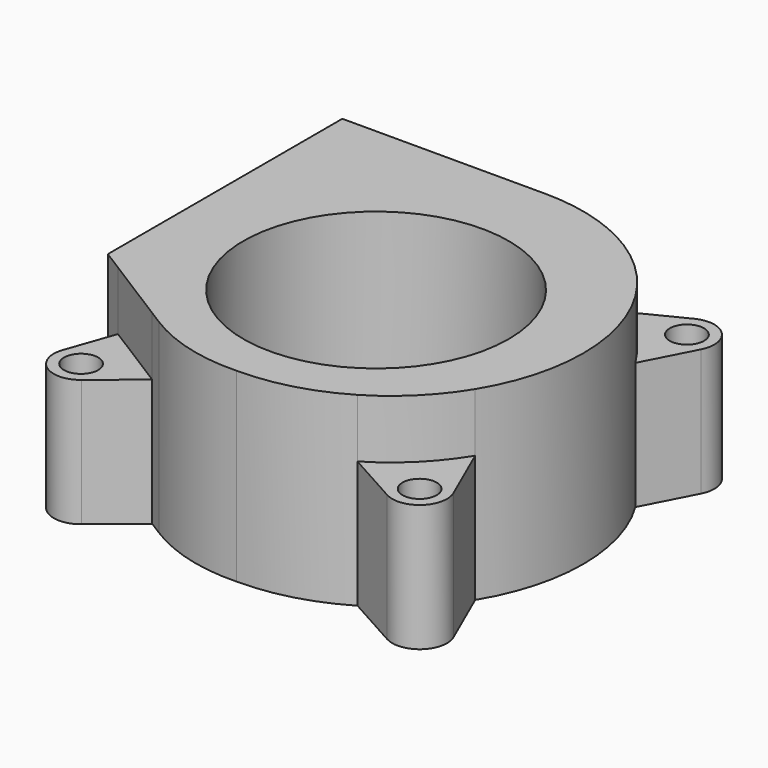
from build123d import *

# Parameters (mm, degrees)
F0_R     = 13.586014
F0_R_2   = 1.75
F1_DEPTH = 1.5
F2_DEPTH = 13
F3_DEPTH = 19


with BuildPart() as f1:
    # F0 (on Top) → F1 (new body)
    with BuildSketch(Plane.XY):
        with BuildLine():
            Line((43.291877, 24.555553), (22.56174, 24.555553))
            Line((22.56174, 24.555553), (22.56174, -5.444447))
            Line((22.56174, -5.444447), (24.640569, -6.751582))
            Line((24.640569, -6.751582), (31.699486, -11.190116))
            Line((31.699486, -11.190116), (33.062977, -12.047457))
            ThreePointArc((33.062977, -12.047457), (37.919879, -14.173764), (43.186607, -14.783891))
            ThreePointArc((43.186607, -14.783891), (48.465497, -14.09159), (53.365348, -12.008945))
            ThreePointArc((53.365348, -12.008945), (57.132258, -9.090982), (60.086993, -5.352845))
            ThreePointArc((60.086993, -5.352845), (62.961704, 4.923251), (60.047767, 15.188294))
            ThreePointArc((60.047767, 15.188294), (57.289995, 18.70438), (53.809777, 21.507281))
            ThreePointArc((53.809777, 21.507281), (48.767235, 23.778121), (43.291877, 24.555553))
        make_face()
        with Locations((43.186607, 3.091027)):
            Circle(F0_R, mode=Mode.SUBTRACT)
        with Locations((43.186607, 3.091027)):
            Circle(F0_R)
        with BuildLine():
            Line((31.699486, -11.190116), (24.640569, -6.751582))
            Line((24.640569, -6.751582), (22.912271, -11.682871))
            ThreePointArc((22.912271, -11.682871), (23.949593, -14.903245), (27.330435, -14.773852))
            Line((27.330435, -14.773852), (31.699486, -11.190116))
        make_face()
        with Locations((25.554683, -12.608973)):
            Circle(F0_R_2, mode=Mode.SUBTRACT)
        with BuildLine():
            Line((62.771435, -11.486311), (60.086993, -5.352845))
            ThreePointArc((60.086993, -5.352845), (57.132258, -9.090982), (53.365348, -12.008945))
            Line((53.365348, -12.008945), (58.845684, -15.056129))
            ThreePointArc((58.845684, -15.056129), (62.090115, -14.680554), (62.771435, -11.486311))
        make_face()
        with Locations((60.206356, -12.608973)):
            Circle(F0_R_2, mode=Mode.SUBTRACT)
        with BuildLine():
            Line((58.947953, 24.092311), (53.809777, 21.507281))
            ThreePointArc((53.809777, 21.507281), (57.289995, 18.70438), (60.047767, 15.188294))
            Line((60.047767, 15.188294), (62.693522, 20.304946))
            ThreePointArc((62.693522, 20.304946), (62.197209, 23.559911), (58.947953, 24.092311))
        make_face()
        with Locations((60.206356, 21.591027)):
            Circle(F0_R_2, mode=Mode.SUBTRACT)
    extrude(amount=F1_DEPTH)

    # F0 (on Top) → F2 (join)
    with BuildSketch(Plane.XY):
        with BuildLine():
            Line((31.699486, -11.190116), (24.640569, -6.751582))
            Line((24.640569, -6.751582), (22.912271, -11.682871))
            ThreePointArc((22.912271, -11.682871), (23.949593, -14.903245), (27.330435, -14.773852))
            Line((27.330435, -14.773852), (31.699486, -11.190116))
        make_face()
        with Locations((25.554683, -12.608973)):
            Circle(F0_R_2, mode=Mode.SUBTRACT)
        with BuildLine():
            Line((62.771435, -11.486311), (60.086993, -5.352845))
            ThreePointArc((60.086993, -5.352845), (57.132258, -9.090982), (53.365348, -12.008945))
            Line((53.365348, -12.008945), (58.845684, -15.056129))
            ThreePointArc((58.845684, -15.056129), (62.090115, -14.680554), (62.771435, -11.486311))
        make_face()
        with Locations((60.206356, -12.608973)):
            Circle(F0_R_2, mode=Mode.SUBTRACT)
        with BuildLine():
            Line((58.947953, 24.092311), (53.809777, 21.507281))
            ThreePointArc((53.809777, 21.507281), (57.289995, 18.70438), (60.047767, 15.188294))
            Line((60.047767, 15.188294), (62.693522, 20.304946))
            ThreePointArc((62.693522, 20.304946), (62.197209, 23.559911), (58.947953, 24.092311))
        make_face()
        with Locations((60.206356, 21.591027)):
            Circle(F0_R_2, mode=Mode.SUBTRACT)
    extrude(amount=F2_DEPTH)

    # F0 (on Top) → F3 (join)
    with BuildSketch(Plane.XY):
        with BuildLine():
            Line((43.291877, 24.555553), (22.56174, 24.555553))
            Line((22.56174, 24.555553), (22.56174, -5.444447))
            Line((22.56174, -5.444447), (24.640569, -6.751582))
            Line((24.640569, -6.751582), (31.699486, -11.190116))
            Line((31.699486, -11.190116), (33.062977, -12.047457))
            ThreePointArc((33.062977, -12.047457), (37.919879, -14.173764), (43.186607, -14.783891))
            ThreePointArc((43.186607, -14.783891), (48.465497, -14.09159), (53.365348, -12.008945))
            ThreePointArc((53.365348, -12.008945), (57.132258, -9.090982), (60.086993, -5.352845))
            ThreePointArc((60.086993, -5.352845), (62.961704, 4.923251), (60.047767, 15.188294))
            ThreePointArc((60.047767, 15.188294), (57.289995, 18.70438), (53.809777, 21.507281))
            ThreePointArc((53.809777, 21.507281), (48.767235, 23.778121), (43.291877, 24.555553))
        make_face()
        with Locations((43.186607, 3.091027)):
            Circle(F0_R, mode=Mode.SUBTRACT)
    extrude(amount=F3_DEPTH)


solid = f1.part
